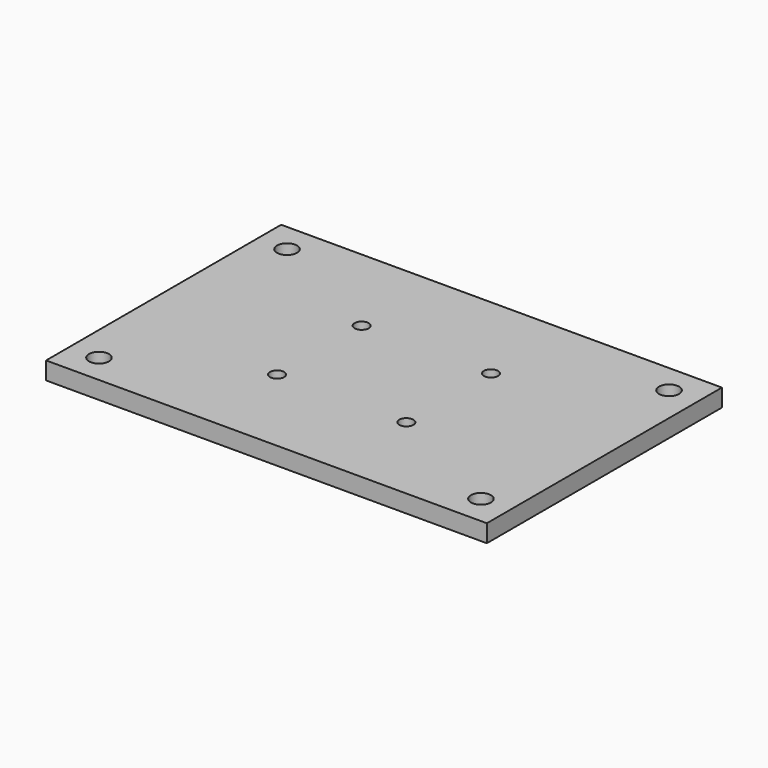
from build123d import *

# Parameters (mm, degrees)
F0_W     = 75
F0_H     = 50
F0_R     = 1.7
F0_R_2   = 1.2
F1_DEPTH = 3


with BuildPart() as f1:
    # F0 (on Top) → F1 (new body)
    with BuildSketch(Plane.XY):
        Rectangle(F0_W, F0_H)
        with Locations((-32.5, -20)):
            Circle(F0_R, mode=Mode.SUBTRACT)
        with Locations((-11, -9)):
            Circle(F0_R_2, mode=Mode.SUBTRACT)
        with Locations((32.5, -20)):
            Circle(F0_R, mode=Mode.SUBTRACT)
        with Locations((11, -9)):
            Circle(F0_R_2, mode=Mode.SUBTRACT)
        with Locations((-11, 9)):
            Circle(F0_R_2, mode=Mode.SUBTRACT)
        with Locations((-32.5, 20)):
            Circle(F0_R, mode=Mode.SUBTRACT)
        with Locations((11, 9)):
            Circle(F0_R_2, mode=Mode.SUBTRACT)
        with Locations((32.5, 20)):
            Circle(F0_R, mode=Mode.SUBTRACT)
    extrude(amount=F1_DEPTH)


solid = f1.part
